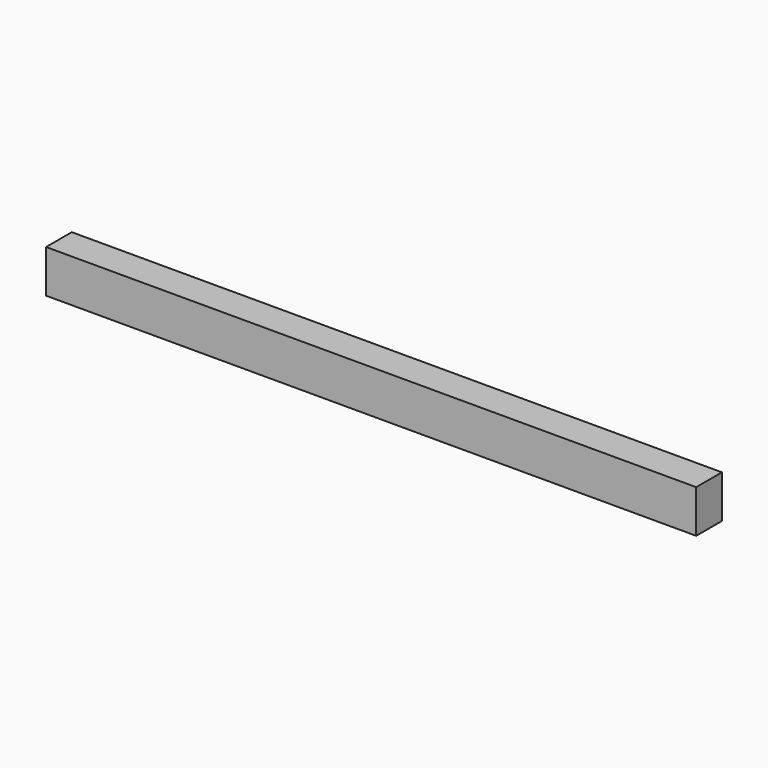
from build123d import *

# Parameters (mm, degrees)
EXTRUDE_DEPTH = 48


with BuildPart() as part:
    # Sketch → Extrude (new body)
    with BuildSketch(Plane.XY):
        Polygon((0, 0), (0, 36), (728.000057, 36), (728, 0), align=None)
    extrude(amount=EXTRUDE_DEPTH)


solid = part.part
